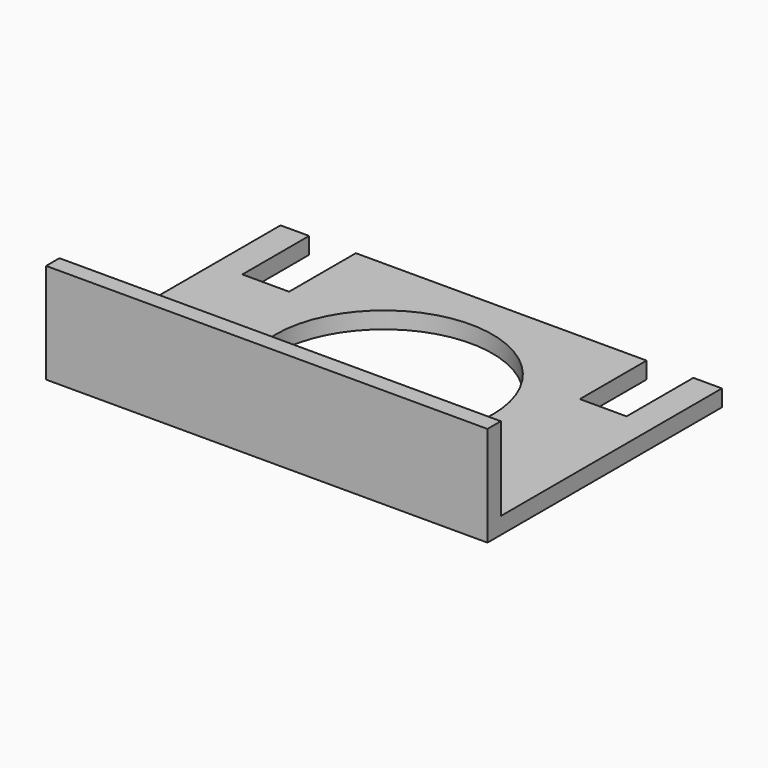
from build123d import *

# Parameters (mm, degrees)
F0_R     = 32.5
F1_DEPTH = 5
F2_W     = 132.237126
F2_H     = 5
F3_DEPTH = 25


with BuildPart() as f1:
    # F0 (on Top) → F1 (new body)
    with BuildSketch(Plane.XY):
        Polygon((66.118563, -43.900584), (66.118563, 43.900584), (57.552597, 43.900584), (57.552597, 18.900584), (43.552597, 18.900584), (43.552597, 43.900584), (-43.552597, 43.900584), (-43.552597, 18.900584), (-57.552597, 18.900584), (-57.552597, 43.900584), (-66.118563, 43.900584), (-66.118563, -43.900584), align=None)
        Circle(F0_R, mode=Mode.SUBTRACT)
    extrude(amount=F1_DEPTH)

    # F2 (on face) → F3 (join)
    with BuildSketch(Plane.XY.offset(5)):
        with Locations((0, -41.400584)):
            Rectangle(F2_W, F2_H)
    extrude(amount=F3_DEPTH)


solid = f1.part
